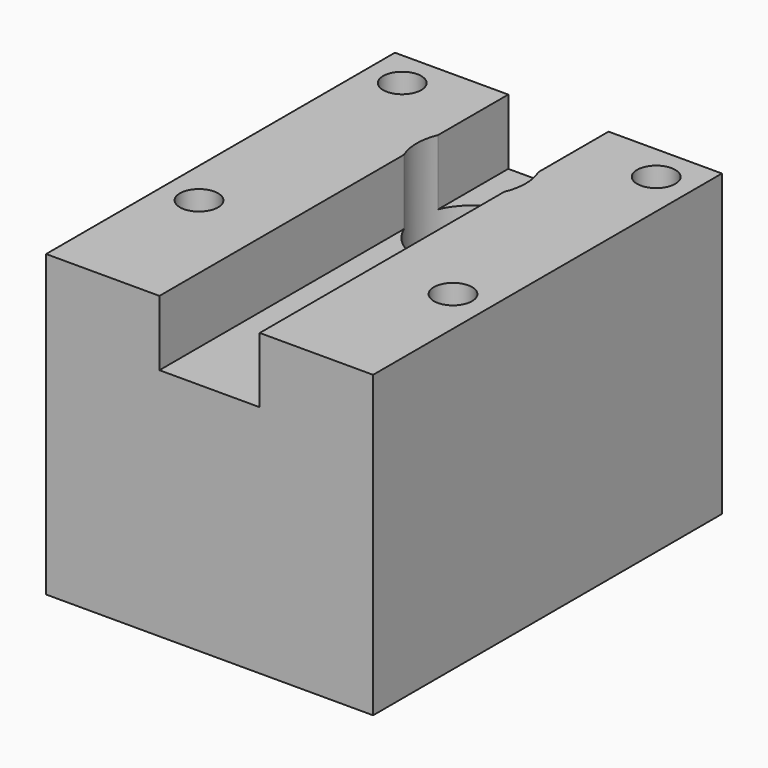
from build123d import *

# Parameters (mm, degrees)
F0_W      = 30
F0_H      = 40
F1_DEPTH  = 27.5
F2_W      = 9.2
F2_H      = 40
F3_DEPTH  = 6
F4_R      = 1.75
F5_DEPTH  = 27.501
F6_R      = 3
F7_DEPTH  = 21.501
F8_R      = 5
F9_DEPTH  = 13
F10_R     = 5
F11_DEPTH = 5
F12_R     = 2
F13_DEPTH = 20
F14_R     = 2


with BuildPart() as f1:
    # F0 (on Top) → F1 (new body)
    with BuildSketch(Plane.XY):
        Rectangle(F0_W, F0_H)
    extrude(amount=F1_DEPTH)

    # F2 (on face) → F3 (cut)
    with BuildSketch(Plane.XY.offset(27.5)):
        Rectangle(F2_W, F2_H)
    extrude(amount=-F3_DEPTH, mode=Mode.SUBTRACT)

    # F4 (on face) → F5 (cut, through all)
    with BuildSketch(Plane.XY.offset(27.5)):
        with Locations((-11.65, 16.65)):
            Circle(F4_R)
        with Locations((-11.65, -6.65)):
            Circle(F4_R)
        with Locations((11.65, 16.65)):
            Circle(F4_R)
        with Locations((11.65, -6.65)):
            Circle(F4_R)
    extrude(amount=-F5_DEPTH, mode=Mode.SUBTRACT)

    # F6 (on face) → F7 (cut, through all)
    with BuildSketch(Plane.XY.offset(21.5)):
        with Locations((0, 10)):
            Circle(F6_R)
    extrude(amount=-F7_DEPTH, mode=Mode.SUBTRACT)

    # F8 (on face) → F9 (cut)
    with BuildSketch(Plane.XY.offset(27.5)):
        with Locations((0, 10)):
            Circle(F8_R)
    extrude(amount=-F9_DEPTH, mode=Mode.SUBTRACT)

    # F10 (on face) → F11 (cut)
    with BuildSketch(Plane(origin=(0, 0, 0), x_dir=(1, 0, 0), z_dir=(0, 0, -1))):
        with Locations((0, -10)):
            Circle(F10_R)
    extrude(amount=-F11_DEPTH, mode=Mode.SUBTRACT)

    # F12 (on face) → F13 (cut)
    with BuildSketch(Plane(origin=(0, 0, 0), x_dir=(1, 0, 0), z_dir=(0, 0, -1))):
        with Locations((-11.95, 1.6)):
            Circle(F12_R)
        with Locations((-11.95, -12.45)):
            Circle(F12_R)
        with Locations((12.05, 1.6)):
            Circle(F12_R)
        with Locations((12.05, -12.45)):
            Circle(F12_R)
    extrude(amount=-F13_DEPTH, mode=Mode.SUBTRACT)

    # F14
    f14_edges = [f1.edges().sort_by_distance(p)[0] for p in [
        (-13.95, -1.6, 20),
        (-13.95, 12.45, 20),
        (10.05, -1.6, 20),
        (10.05, 12.45, 20),
    ]]
    fillet(f14_edges, radius=F14_R)


solid = f1.part
